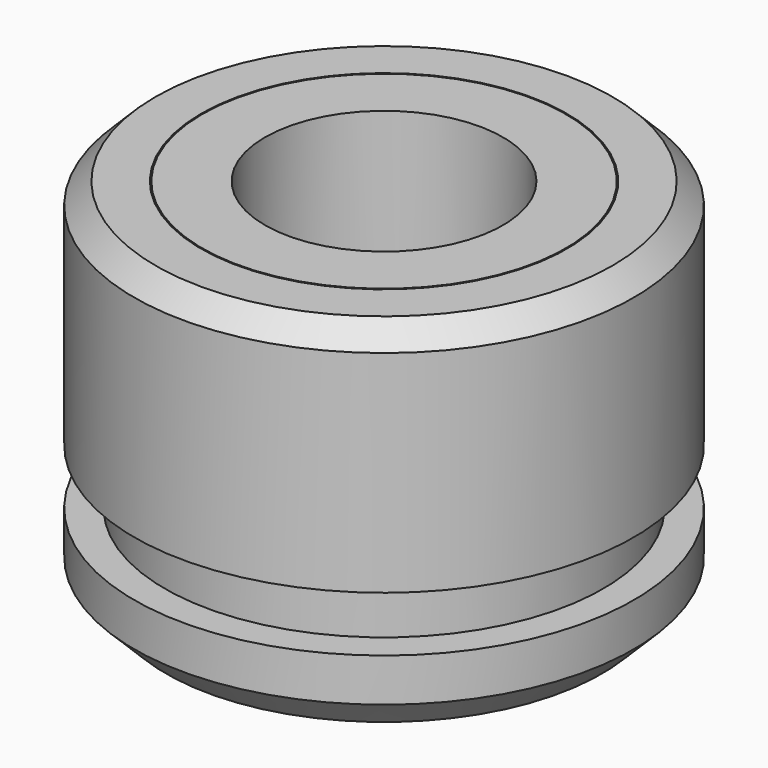
from build123d import *

# Parameters (mm, degrees)
F2_SIZE  = 7.62
F3_R     = 4.1392992447
F4_DEPTH = 86.7601612041
F5_R     = 4.1392992447
F6_DEPTH = 19.05
F7_SIZE  = 0.508
F8_R     = 0.508
F9_SIZE  = 5.08


with BuildPart() as f1:
    # F0 (on Front) → F1 (revolve)
    with BuildSketch(Plane.XZ):
        Polygon((-36.07827425, 14.7352814674), (-28.481900692, 14.7352814674), (-28.481900692, 24.7980058193), (-59.7552731633, 24.7980058193), (-59.7552731633, 14.7352814674), (-52.1588996053, 14.7352814674), (-52.1588996053, -3.9756504729), (-36.07827425, -3.9756504729), align=None)
        Polygon((-59.7552731633, 24.7980058193), (-28.481900692, 24.7980058193), (-28.481900692, 37.0392128825), (-43.7594875693, 70.3055113554), (-59.7552731633, 70.3055113554), align=None)
    revolve(axis=Axis((0, 0, 0.3030002117), (0, 0, -1)))

    # F5 (on face) → F6 (cut)
    with BuildSketch(Plane(origin=(0, 0, -3.9756504729), x_dir=(1, 0, 0), z_dir=(0, 0, -1))):
        with Locations((-44.0976712112, 0)):
            Circle(F5_R)
        with Locations((-35.6757654222, -25.9199607984)):
            Circle(F5_R)
        with Locations((-13.6269298166, -41.9393775588)):
            Circle(F5_R)
        with Locations((13.6269298166, -41.9393775588)):
            Circle(F5_R)
        with Locations((35.6757654222, -25.9199607984)):
            Circle(F5_R)
        with Locations((44.0976712112, 0)):
            Circle(F5_R)
    extrude(amount=-F6_DEPTH, mode=Mode.SUBTRACT)

    # F7
    f7_edges = [f1.edges().sort_by_distance(p)[0] for p in [
        (52.1589, 0, -3.97565),
        (-48.23697, 0, -3.97565),
        (36.078274, 0, -3.97565),
    ]]
    chamfer(f7_edges, length=F7_SIZE)

    # F8
    f8_edges = [f1.edges().sort_by_distance(p)[0] for p in [
        (52.1589, 0, 14.735281),
        (36.078274, 0, 14.735281),
    ]]
    fillet(f8_edges, radius=F8_R)

    # F9
    f9_edges = [f1.edges().sort_by_distance(p)[0] for p in [
        (59.755273, 0, 70.305511),
    ]]
    chamfer(f9_edges, length=F9_SIZE)


with BuildPart() as f1b:
    # F0 (on Front) → F1, piece 2 (revolve)
    with BuildSketch(Plane.XZ):
        Polygon((-28.481900692, -16.4536498487), (-28.481900692, 1.5160813928), (-35.82427425, 1.5160813928), (-35.82427425, -6.5156504729), (-52.4128996053, -6.5156504729), (-52.4128996053, 1.5160813928), (-59.7552731633, 1.5160813928), (-59.7552731633, -16.4536498487), align=None)
    revolve(axis=Axis((0, 0, 0.3030002117), (0, 0, -1)))

    # F2
    f2_edges = [f1b.edges().sort_by_distance(p)[0] for p in [
        (59.755273, 0, -16.45365),
    ]]
    chamfer(f2_edges, length=F2_SIZE)

    # F3 (on face) → F4 (cut, through all)
    with BuildSketch(Plane(origin=(0, 0, -16.4536498487), x_dir=(1, 0, 0), z_dir=(0, 0, -1))):
        with Locations((-44.0976712112, 0)):
            Circle(F3_R)
        with Locations((-35.6757654222, -25.9199607984)):
            Circle(F3_R)
        with Locations((-13.6269298166, -41.9393775588)):
            Circle(F3_R)
        with Locations((13.6269298166, -41.9393775588)):
            Circle(F3_R)
        with Locations((35.6757654222, -25.9199607984)):
            Circle(F3_R)
        with Locations((44.0976712112, 0)):
            Circle(F3_R)
    extrude(amount=-F4_DEPTH, mode=Mode.SUBTRACT)


with BuildPart() as f1c:
    # F0 (on Front) → F1, piece 3 (revolve)
    with BuildSketch(Plane.XZ):
        Polygon((-28.481900692, 37.6478236936), (-28.481900692, 70.3055113554), (-43.4799823353, 70.3055113554), align=None)
    revolve(axis=Axis((0, 0, 0.3030002117), (0, 0, -1)))


solid = Compound([f1.part, f1b.part, f1c.part])
